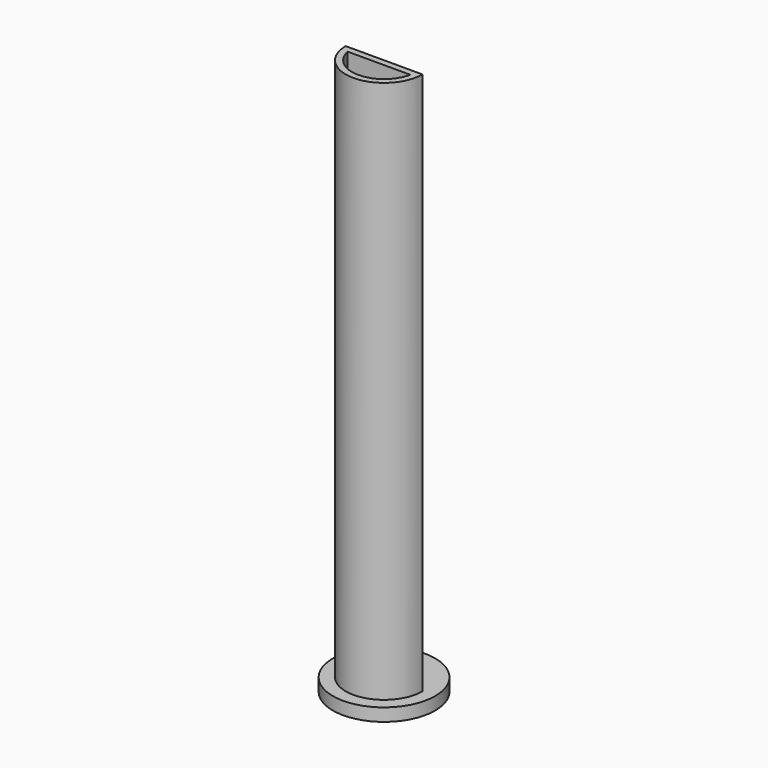
from build123d import *

# Parameters (mm, degrees)
F1_DEPTH = 87
F0_R     = 8
F2_DEPTH = 2
F3_R     = 1.5
F4_DEPTH = 25


with BuildPart() as f1:
    # F0 (on Top) → F1 (new body)
    with BuildSketch(Plane.XY):
        with BuildLine():
            Line((6, 0), (-6, 0))
            ThreePointArc((-6, 0), (0, -6), (6, 0))
        make_face()
        with BuildLine():
            ThreePointArc((4.898979, -1), (0, -5), (-4.898979, -1))
            Line((-4.898979, -1), (4.898979, -1))
        make_face(mode=Mode.SUBTRACT)
    extrude(amount=F1_DEPTH)

    # F0 (on Top) → F2 (join)
    with BuildSketch(Plane.XY):
        Circle(F0_R)
        with BuildLine():
            ThreePointArc((6, 0), (0, -6), (-6, 0))
            Line((-6, 0), (6, 0))
        make_face(mode=Mode.SUBTRACT)
    extrude(amount=F2_DEPTH)

    # F3 (on face) → F4 (cut)
    with BuildSketch(Plane(origin=(0, 0, 0), x_dir=(1, 0, 0), z_dir=(0, 0, -1))):
        with Locations((0, -3)):
            Circle(F3_R)
    extrude(amount=-F4_DEPTH, mode=Mode.SUBTRACT)


solid = f1.part
